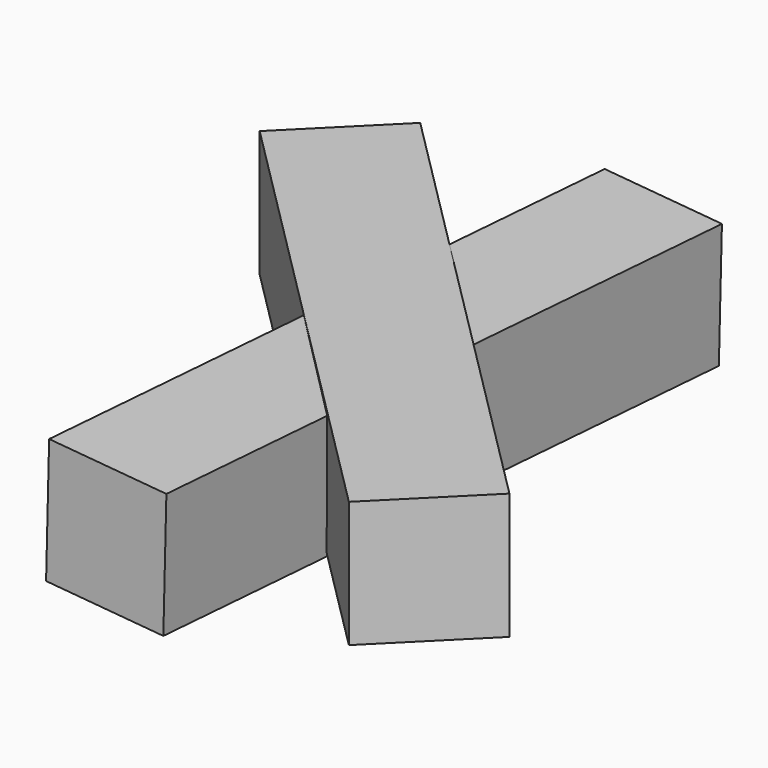
from build123d import *

# Parameters (mm, degrees)
BOX001_W               = 2
BOX001_H               = 10
BOX001_DEPTH           = 2
BOX001_ROLL_ANGLE      = -0.060026
BOX001_PITCH_ANGLE     = 1.435067
BOX001_PLACEMENT_ANGLE = -4.790134
BOX_W                  = 2
BOX_H                  = 10
BOX_DEPTH              = 2
BOX_PLACEMENT_ANGLE    = 45


with BuildPart() as cubo001:
    # Box001 → Box001 (new body)
    with BuildSketch(Plane.XY):
        with Locations((1, 5)):
            Rectangle(BOX001_W, BOX001_H)
    extrude(amount=BOX001_DEPTH)


with BuildPart() as cubo001_1:
    # Box001 roll: moved
    add(cubo001.part.rotate(Axis((0, 0, 0), (1, 0, 0)), BOX001_ROLL_ANGLE))


with BuildPart() as cubo001_2:
    # Box001 pitch: moved
    add(cubo001_1.part.rotate(Axis((0, 0, 0), (0, 1, 0)), BOX001_PITCH_ANGLE))


with BuildPart() as cubo001_3:
    # Box001 placement: moved
    add(cubo001_2.part.moved(Location((3, 2, 0))).rotate(Axis((3, 2, 0), (0, 0, 1)), BOX001_PLACEMENT_ANGLE))


with BuildPart() as fusion:
    # Box → Box (new body)
    with BuildSketch(Plane.XY):
        with Locations((1, 5)):
            Rectangle(BOX_W, BOX_H)
    extrude(amount=BOX_DEPTH)


with BuildPart() as fusion_1:
    # Box placement: moved
    add(fusion.part.moved(Location((7, 3, 0))).rotate(Axis((7, 3, 0), (0, 0, 1)), BOX_PLACEMENT_ANGLE))

    # Fusion: union Cubo001
    add(cubo001_3.part)


solid = fusion_1.part
